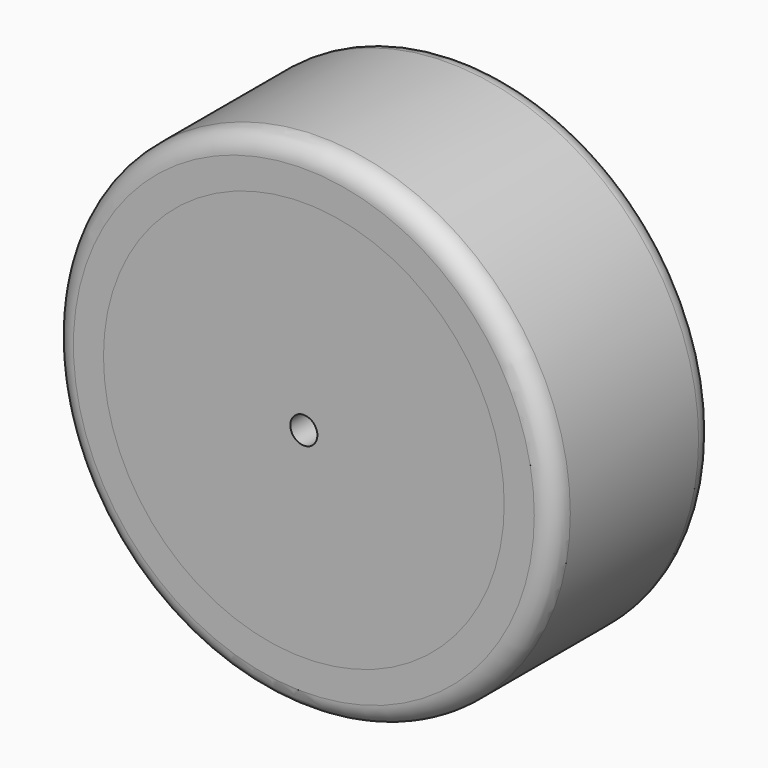
from build123d import *

# Parameters (mm, degrees)
F0_R     = 25.4
F0_R_2   = 1.7145
F1_DEPTH = 25.4
F0_R_3   = 31.75
F2_DEPTH = 25.4
F3_R     = 2.54
F4_R     = 2.54


with BuildPart() as f1:
    # F0 (on Front) → F1 (new body)
    with BuildSketch(Plane.XZ):
        Circle(F0_R)
        Circle(F0_R_2, mode=Mode.SUBTRACT)
    extrude(amount=F1_DEPTH)


with BuildPart() as f2:
    # F0 (on Front) → F2 (new body)
    with BuildSketch(Plane.XZ):
        Circle(F0_R_3)
        Circle(F0_R, mode=Mode.SUBTRACT)
    extrude(amount=F2_DEPTH)

    # F3
    f3_edges = [f2.edges().sort_by_distance(p)[0] for p in [
        (-31.75, -25.4, 0),
    ]]
    fillet(f3_edges, radius=F3_R)

    # F4
    f4_edges = [f2.edges().sort_by_distance(p)[0] for p in [
        (-31.75, 0, 0),
    ]]
    fillet(f4_edges, radius=F4_R)


solid = Compound([f1.part, f2.part])
